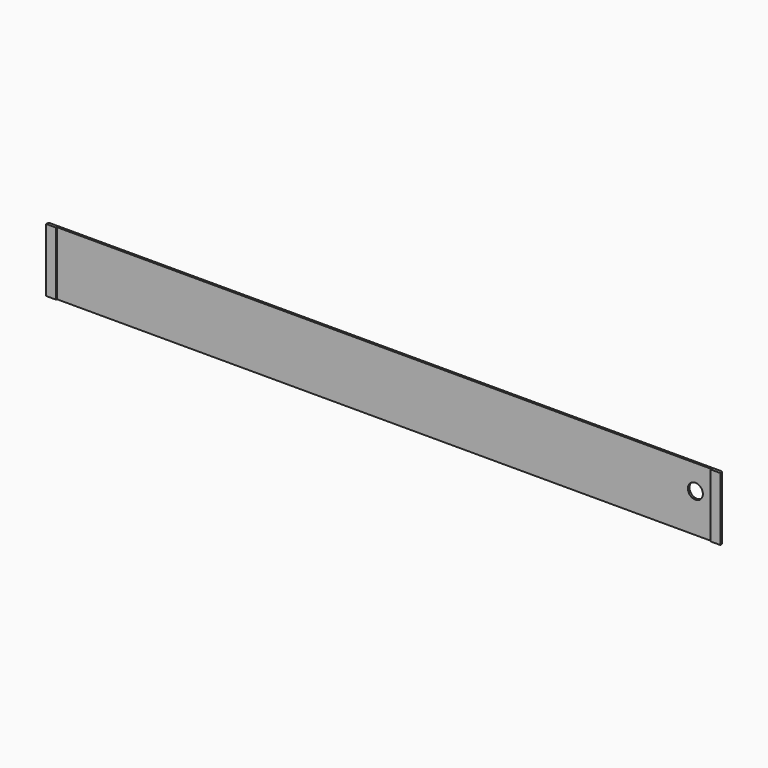
from build123d import *

# Parameters (mm, degrees)
F0_W     = 20
F0_H     = 127
F0_W_2   = 1310
F1_DEPTH = 4
F2_D     = 30
F3_W     = 20
F3_H     = 127
F4_DEPTH = 2
F5_SIZE  = 2


with BuildPart() as f1:
    # F0 (on Front) → F1 (new body)
    with BuildSketch(Plane.XZ):
        with Locations((-665, 0)):
            Rectangle(F0_W, F0_H)
        Rectangle(F0_W_2, F0_H)
        with Locations((665, 0)):
            Rectangle(F0_W, F0_H)
    extrude(amount=F1_DEPTH)

    # F2 (through all)
    with Locations(Plane(origin=(0, 0, 0), x_dir=(1, 0, 0), z_dir=(0, 1, 0))):
        with Locations((623.46, -13.81)):
            Hole(F2_D / 2)

    # F3 (on face) → F4 (join)
    with BuildSketch(Plane.XZ.offset(4)):
        with Locations((-665, 0)):
            Rectangle(F3_W, F3_H)
        with Locations((665, 0)):
            Rectangle(F3_W, F3_H)
    extrude(amount=F4_DEPTH)

    # F5
    f5_edges = [f1.edges().sort_by_distance(p)[0] for p in [
        (675, 0, 0),
        (-675, 0, 0),
    ]]
    chamfer(f5_edges, length=F5_SIZE)


solid = f1.part
